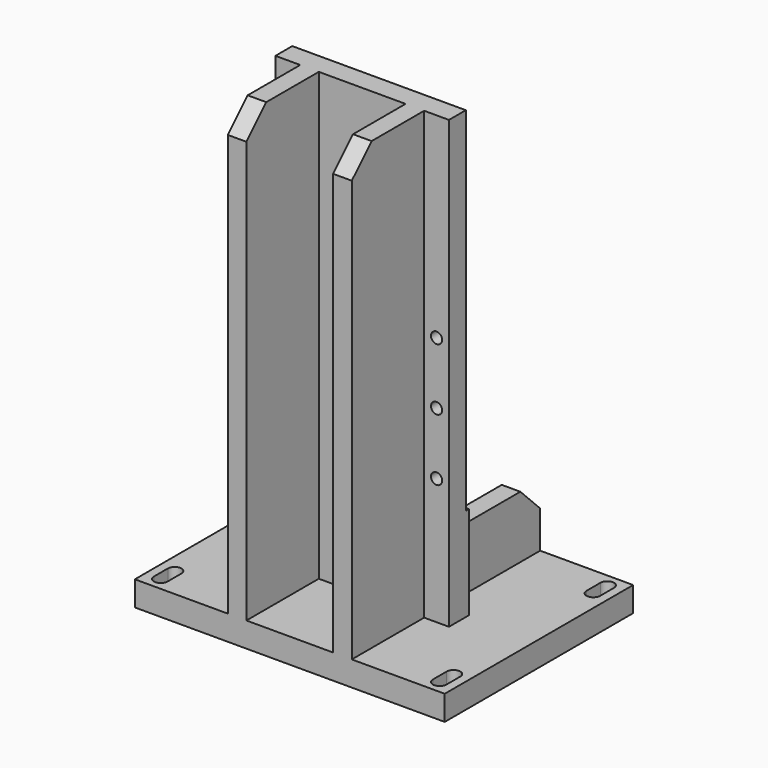
from build123d import *

# Parameters (mm, degrees)
F0_W     = 250
F0_H     = 190
F1_DEPTH = 20
F2_W     = 15
F2_H     = 73
F2_H_2   = 97
F3_DEPTH = 360
F4_W     = 3
F4_H     = 284.5591875911
F5_DEPTH = 140
F6_SIZE  = 20
F8_D     = 9


with BuildPart() as f1:
    # F0 (on Top) → F1 (new body)
    with BuildSketch(Plane.XY):
        Rectangle(F0_W, F0_H)
        with BuildLine():
            ThreePointArc((-107, -84.5), (-112.5, -90), (-118, -84.5))
            Line((-118, -84.5), (-118, -70.5))
            ThreePointArc((-118, -70.5), (-112.5, -65), (-107, -70.5))
            Line((-107, -70.5), (-107, -84.5))
        make_face(mode=Mode.SUBTRACT)
        with BuildLine():
            ThreePointArc((118, -84.5), (112.5, -90), (107, -84.5))
            Line((107, -84.5), (107, -70.5))
            ThreePointArc((107, -70.5), (112.5, -65), (118, -70.5))
            Line((118, -70.5), (118, -84.5))
        make_face(mode=Mode.SUBTRACT)
        with BuildLine():
            ThreePointArc((-118, 84.5), (-112.5, 90), (-107, 84.5))
            Line((-107, 84.5), (-107, 70.5))
            ThreePointArc((-107, 70.5), (-112.5, 65), (-118, 70.5))
            Line((-118, 70.5), (-118, 84.5))
        make_face(mode=Mode.SUBTRACT)
        with BuildLine():
            ThreePointArc((118, 70.5), (112.5, 65), (107, 70.5))
            Line((107, 70.5), (107, 84.5))
            ThreePointArc((107, 84.5), (112.5, 90), (118, 84.5))
            Line((118, 84.5), (118, 70.5))
        make_face(mode=Mode.SUBTRACT)
    extrude(amount=F1_DEPTH)

    # F2 (on face) → F3 (join)
    with BuildSketch(Plane.XY.offset(20)):
        with Locations((-42.5, -58.5)):
            Rectangle(F2_W, F2_H)
        with Locations((42.5, -58.5)):
            Rectangle(F2_W, F2_H)
        Polygon((-70, -22), (-50, -22), (-35, -22), (35, -22), (50, -22), (70, -22), (70, -2), (50, -2), (35, -2), (-35, -2), (-50, -2), (-70, -2), align=None)
        with Locations((42.5, 46.5)):
            Rectangle(F2_W, F2_H_2)
        with Locations((-42.5, 46.5)):
            Rectangle(F2_W, F2_H_2)
    extrude(amount=F3_DEPTH)

    # F4 (on face) → F5 (cut, symmetric)
    with BuildSketch(Plane.YZ.offset(50)):
        Polygon((-2, 70), (95, 70), (95, 380), (-2, 380), (-2, 95.4408124089), align=None)
        with Locations((-3.5, 237.7204062045)):
            Rectangle(F4_W, F4_H)
    extrude(amount=F5_DEPTH, both=True, mode=Mode.SUBTRACT)

    # F6
    f6_edges = [f1.edges().sort_by_distance(p)[0] for p in [
        (42.5, -95, 380),
        (-42.5, -95, 380),
        (42.5, 95, 70),
        (-42.5, 95, 70),
    ]]
    chamfer(f6_edges, length=F6_SIZE)

    # F8 (through all)
    with Locations(Plane.XZ.offset(22)):
        with Locations((-60, 222), (-60, 172), (-60, 122), (60, 222), (60, 172), (60, 122)):
            Hole(F8_D / 2)


solid = f1.part
